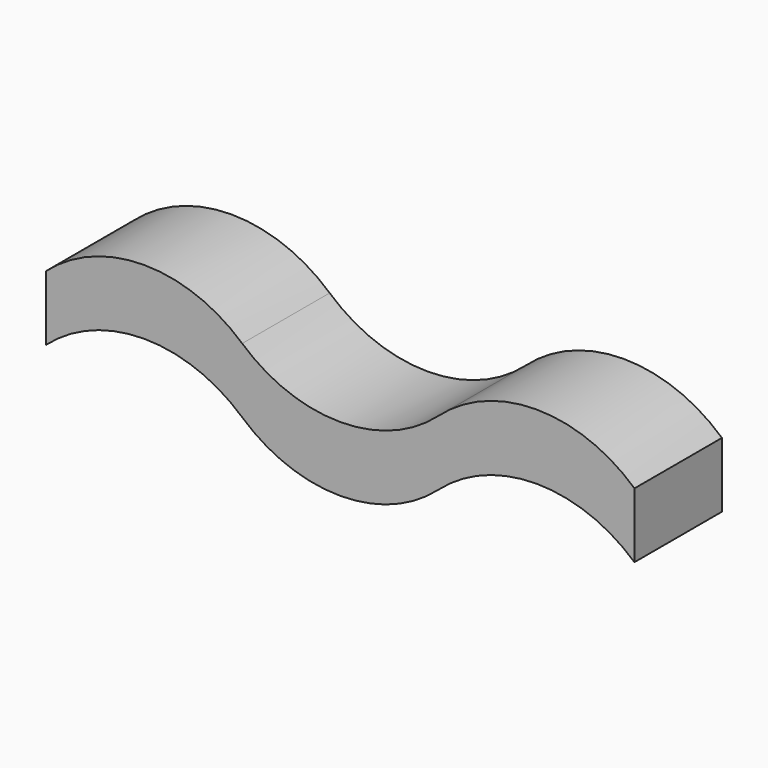
from build123d import *

# Parameters (mm, degrees)
F1_DEPTH = 1231.9


with BuildPart() as f1:
    # F0 (on Front) → F1 (new body)
    with BuildSketch(Plane.XZ):
        with BuildLine():
            ThreePointArc((-4419.6, 0), (-3314.7, 419.877794), (-2209.8, 0))
            Line((-2209.8, 0), (-2209.8, 732.300009))
            ThreePointArc((-2209.8, 732.300009), (-3314.7, 1152.177803), (-4419.6, 732.300009))
            Line((-4419.6, 732.300009), (-4419.6, 0))
        make_face()
        with BuildLine():
            Line((-2209.8, 0), (0, 0))
            Line((0, 0), (0, 732.300009))
            ThreePointArc((0, 732.300009), (-1104.9, 312.422215), (-2209.8, 732.300009))
            Line((-2209.8, 732.300009), (-2209.8, 0))
        make_face()
        with BuildLine():
            ThreePointArc((-2209.8, 0), (-1104.9, -419.877794), (0, 0))
            Line((0, 0), (-2209.8, 0))
        make_face()
        with BuildLine():
            Line((0, 732.300009), (0, 0))
            ThreePointArc((0, 0), (1104.9, 419.877794), (2209.8, 0))
            Line((2209.8, 0), (2209.8, 732.300009))
            ThreePointArc((2209.8, 732.300009), (1104.9, 1156.516821), (0, 732.300009))
        make_face()
    extrude(amount=F1_DEPTH)


solid = f1.part
